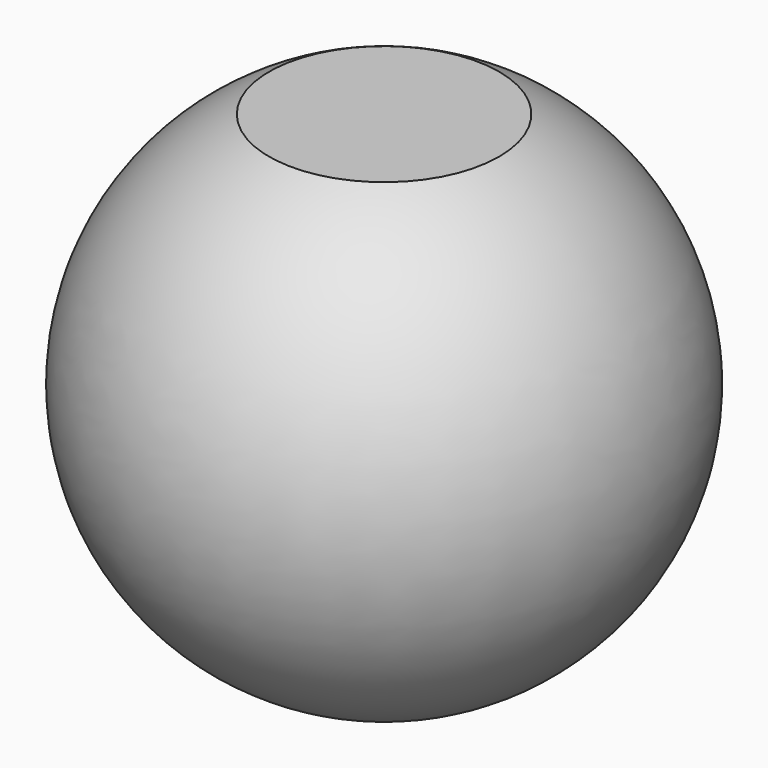
from build123d import *

# Parameters (mm, degrees)
F3_DEPTH = 254.001


with BuildPart() as f1:
    # F0 (on Front) → F1 (revolve)
    with BuildSketch(Plane.XZ):
        with BuildLine():
            Line((453.548372, 78.941913), (453.548372, -378.258087))
            Line((453.548372, -378.258087), (564.264405, -378.258087))
            ThreePointArc((564.264405, -378.258087), (707.548372, -149.658087), (564.264405, 78.941913))
            Line((564.264405, 78.941913), (453.548372, 78.941913))
        make_face()
    revolve(axis=Axis((453.548372, 0, -149.658087), (0, 0, 1)))

    # F2 (on Front) → F3 (cut, through all)
    with BuildSketch(Plane.XZ):
        Polygon((5.360078, 0), (31.425737, 0), (29.046301, 77.417913), (5.360078, 77.417913), align=None)
        Polygon((6.333485, -4.270286), (7.847672, -6.703802), (30.560489, -6.703802), (31.425737, -4.270286), align=None)
    extrude(amount=-F3_DEPTH, mode=Mode.SUBTRACT)


solid = f1.part
